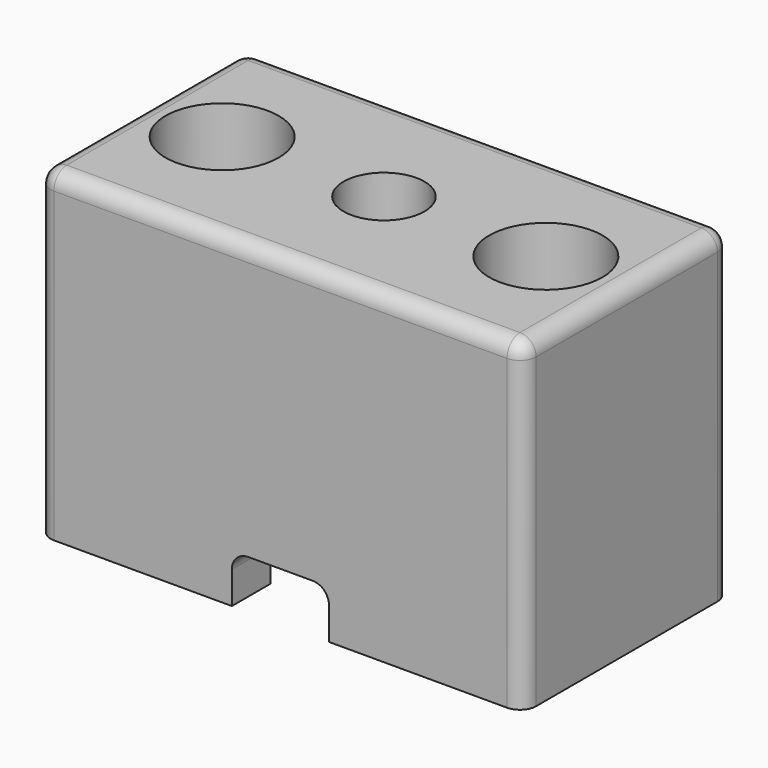
from build123d import *

# Parameters (mm, degrees)
BOX002_W          = 6
BOX002_H          = 10
BOX002_DEPTH      = 4
CYLINDER004_R     = 2.5
CYLINDER004_DEPTH = 10
CYLINDER_R        = 3.5
CYLINDER_DEPTH    = 33
CHAMFER_SIZE      = 3
CYLINDER001_R     = 3.5
CYLINDER001_DEPTH = 33
CHAMFER001_SIZE   = 3
CYLINDER002_R     = 2
CYLINDER002_DEPTH = 33
CYLINDER003_R     = 2
CYLINDER003_DEPTH = 33
BOX001_W          = 12
BOX001_H          = 10
BOX001_DEPTH      = 20
BOX_W             = 30
BOX_H             = 16
BOX_DEPTH         = 20
FILLET_R          = 1
FILLET001_R       = 1


with BuildPart() as cube002:
    # Box002 → Box002 (new body)
    with BuildSketch(Plane(origin=(12, -4, -1), x_dir=(1, 0, 0), z_dir=(0, 0, 1))):
        with Locations((3, 5)):
            Rectangle(BOX002_W, BOX002_H)
    extrude(amount=BOX002_DEPTH)


with BuildPart() as cylinder004:
    # Cylinder004 → Cylinder004 (new body)
    with BuildSketch(Plane(origin=(15, 8, 15), x_dir=(1, 0, 0), z_dir=(0, 0, 1))):
        Circle(CYLINDER004_R)
    extrude(amount=CYLINDER004_DEPTH)


with BuildPart() as chamfer_body:
    # Cylinder → Cylinder (new body)
    with BuildSketch(Plane(origin=(5, 8, -1), x_dir=(1, 0, 0), z_dir=(0, 0, 1))):
        Circle(CYLINDER_R)
    extrude(amount=CYLINDER_DEPTH)

    # Chamfer
    chamfer_edges = [chamfer_body.edges().sort_by_distance(p)[0] for p in [
        (1.5, 8, -1),
    ]]
    chamfer(chamfer_edges, length=CHAMFER_SIZE)


with BuildPart() as chamfer_body_1:
    # Chamfer placement: moved
    add(chamfer_body.part.moved(Location((0, 0, 4))))


with BuildPart() as chamfer001:
    # Cylinder001 → Cylinder001 (new body)
    with BuildSketch(Plane(origin=(25, 8, -1), x_dir=(1, 0, 0), z_dir=(0, 0, 1))):
        Circle(CYLINDER001_R)
    extrude(amount=CYLINDER001_DEPTH)

    # Chamfer001
    chamfer001_edges = [chamfer001.edges().sort_by_distance(p)[0] for p in [
        (21.5, 8, -1),
    ]]
    chamfer(chamfer001_edges, length=CHAMFER001_SIZE)


with BuildPart() as chamfer001_1:
    # Chamfer001 placement: moved
    add(chamfer001.part.moved(Location((0, 0, 4))))


with BuildPart() as cylinder002:
    # Cylinder002 → Cylinder002 (new body)
    with BuildSketch(Plane(origin=(5, 8, -1), x_dir=(1, 0, 0), z_dir=(0, 0, 1))):
        Circle(CYLINDER002_R)
    extrude(amount=CYLINDER002_DEPTH)


with BuildPart() as cylinder003:
    # Cylinder003 → Cylinder003 (new body)
    with BuildSketch(Plane(origin=(25, 8, -1), x_dir=(1, 0, 0), z_dir=(0, 0, 1))):
        Circle(CYLINDER003_R)
    extrude(amount=CYLINDER003_DEPTH)


with BuildPart() as holes:
    # Box001 → Box001 (new body)
    with BuildSketch(Plane(origin=(9, 3, -3), x_dir=(1, 0, 0), z_dir=(0, 0, 1))):
        with Locations((6, 5)):
            Rectangle(BOX001_W, BOX001_H)
    extrude(amount=BOX001_DEPTH)

    # Fusion: union Chamfer body, Chamfer001, Cylinder002, Cylinder003
    add(chamfer_body_1.part)
    add(chamfer001_1.part)
    add(cylinder002.part)
    add(cylinder003.part)


with BuildPart() as fillet001:
    # Box → Box (new body)
    with BuildSketch(Plane.XY):
        with Locations((15, 8)):
            Rectangle(BOX_W, BOX_H)
    extrude(amount=BOX_DEPTH)

    # Cut: cut holes
    add(holes.part, mode=Mode.SUBTRACT)

    # Cut001: cut Cylinder004
    add(cylinder004.part, mode=Mode.SUBTRACT)

    # Cut002: cut Cube002
    add(cube002.part, mode=Mode.SUBTRACT)

    # Fillet
    fillet_edges = [fillet001.edges().sort_by_distance(p)[0] for p in [
        (12, 1.5, 3),
        (18, 1.5, 3),
    ]]
    fillet(fillet_edges, radius=FILLET_R)

    # Fillet001
    fillet001_edges = [fillet001.edges().sort_by_distance(p)[0] for p in [
        (0, 0, 10),
        (15, 0, 20),
        (30, 0, 10),
        (0, 8, 20),
        (0, 16, 10),
        (30, 8, 20),
        (15, 16, 20),
        (30, 16, 10),
    ]]
    fillet(fillet001_edges, radius=FILLET001_R)


solid = fillet001.part
